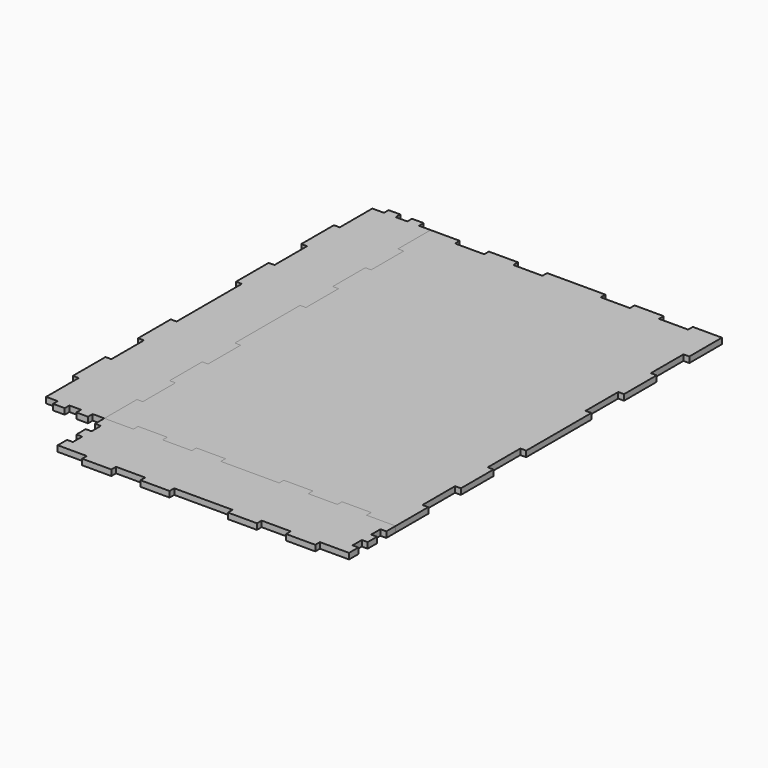
from build123d import *

# Parameters (mm, degrees)
F2_DEPTH = 5
F3_DEPTH = 5
F4_DEPTH = 5


with BuildPart() as f2:
    # F1 (on Top) → F2 (new body)
    with BuildSketch(Plane.XY):
        Polygon((120, -175), (125, -175), (125, -170), (125, -140), (120, -140), (120, -105), (125, -105), (125, -70), (120, -70), (120, -35), (125, -35), (125, 35), (120, 35), (120, 70), (125, 70), (125, 105), (120, 105), (120, 140), (125, 140), (125, 170), (125, 175), (100, 175), (100, 170), (75, 170), (75, 175), (50, 175), (50, 170), (25, 170), (25, 175), (0, 175), (-25, 175), (-25, 170), (-50, 170), (-50, 175), (-75, 175), (-75, 170), (-100, 170), (-100, 175), (-125, 175), (-125, 140), (-120, 140), (-120, 105), (-125, 105), (-125, 70), (-120, 70), (-120, 35), (-125, 35), (-125, 0), (-125, -35), (-120, -35), (-120, -70), (-125, -70), (-125, -105), (-120, -105), (-120, -140), (-125, -140), (-125, -175), (-120, -175), (-100, -175), (-100, -170), (-75, -170), (-75, -175), (-50, -175), (-50, -170), (-25, -170), (-25, -175), (0, -175), (25, -175), (25, -170), (50, -170), (50, -175), (75, -175), (75, -170), (100, -170), (100, -175), align=None)
    extrude(amount=F2_DEPTH)


with BuildPart() as f3:
    # F1 (on Top) → F3 (new body)
    with BuildSketch(Plane.XY):
        Polygon((-135, -175), (-125, -175), (-125, -140), (-120, -140), (-120, -105), (-125, -105), (-125, -70), (-120, -70), (-120, -35), (-125, -35), (-125, 0), (-125, 35), (-120, 35), (-120, 70), (-125, 70), (-125, 105), (-120, 105), (-120, 140), (-125, 140), (-125, 175), (-135, 175), (-135, 180), (-145, 180), (-145, 175), (-155, 175), (-155, 180), (-165, 180), (-165, 175), (-175, 175), (-175, 140), (-180, 140), (-180, 105), (-175, 105), (-175, 70), (-180, 70), (-180, 35), (-175, 35), (-175, -35), (-180, -35), (-180, -70), (-175, -70), (-175, -105), (-180, -105), (-180, -140), (-175, -140), (-175, -175), (-165, -175), (-165, -180), (-155, -180), (-155, -175), (-145, -175), (-145, -180), (-135, -180), align=None)
    extrude(amount=F3_DEPTH)


with BuildPart() as f4:
    # F1 (on Top) → F4 (new body)
    with BuildSketch(Plane.XY):
        Polygon((125, -185), (125, -175), (120, -175), (100, -175), (100, -170), (75, -170), (75, -175), (50, -175), (50, -170), (25, -170), (25, -175), (0, -175), (-25, -175), (-25, -170), (-50, -170), (-50, -175), (-75, -175), (-75, -170), (-100, -170), (-100, -175), (-120, -175), (-125, -175), (-125, -185), (-120, -185), (-120, -195), (-125, -195), (-125, -205), (-120, -205), (-120, -215), (-125, -215), (-125, -225), (-100, -225), (-100, -230), (-75, -230), (-75, -225), (-50, -225), (-50, -230), (-25, -230), (-25, -225), (0, -225), (25, -225), (25, -230), (50, -230), (50, -225), (75, -225), (75, -230), (100, -230), (100, -225), (125, -225), (125, -215), (120, -215), (120, -205), (125, -205), (125, -195), (120, -195), (120, -185), align=None)
    extrude(amount=F4_DEPTH)


solid = Compound([f2.part, f3.part, f4.part])
